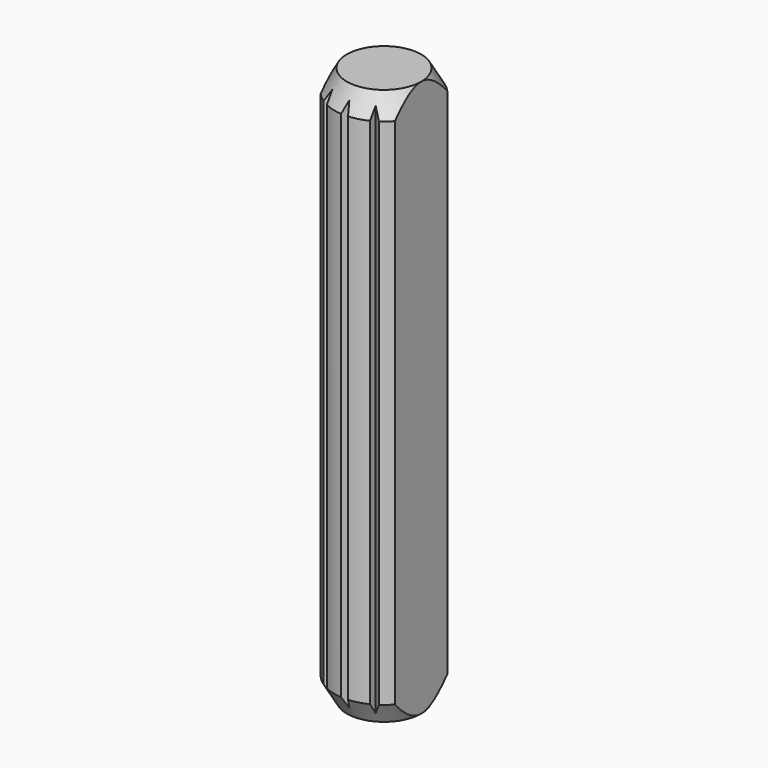
from build123d import *

# Parameters (mm, degrees)
F3_DEPTH = 45.001
F5_DEPTH = 45.001
F6_COUNT = 12
F7_COUNT = 12


with BuildPart() as f1:
    # F0 (on Front) → F1 (revolve)
    with BuildSketch(Plane.XZ):
        Polygon((-3, 0), (0, 0), (0, 45), (-3, 45), (-4, 43.2679491924), (-4, 1.7320508076), align=None)
    revolve(axis=Axis((0, 0, 22.5), (0, 0, -1)))

    # F2 (on face) → F3 (cut, through all)
    with BuildSketch(Plane.XY.offset(45)):
        with BuildLine():
            Line((-3, 0), (-3, 5))
            ThreePointArc((-3, 5), (-5.8309518948, 0), (-3, -5))
            Line((-3, -5), (-3, 0))
        make_face()
        with BuildLine():
            ThreePointArc((5.8309518948, 0), (5.0740937952, 2.8729030888), (3, 5))
            Line((3, 5), (3, 0))
            Line((3, 0), (3, -5))
            ThreePointArc((3, -5), (5.0740937952, -2.8729030888), (5.8309518948, 0))
        make_face()
    extrude(amount=-F3_DEPTH, mode=Mode.SUBTRACT)

    # F4 (on face) → F5 (cut, through all)
    with BuildSketch(Plane.XY.offset(45)):
        Polygon((0.813057266, 4.9082564943), (-0.813057266, 4.9082564943), (0, 3.5), align=None)
        Polygon((0.813057266, -4.9082564943), (0, -3.5), (-0.813057266, -4.9082564943), align=None)
    f5 = extrude(amount=-F5_DEPTH, mode=Mode.SUBTRACT)

    # F6: F5 ×12 about axis
    f6_axis = Axis((0, 0, 45), (0, 0, -1))
    for i in range(1, F6_COUNT):
        add(f5.solids().sort_by_distance((0.406529, 4.204128, 22.4995))[0].rotate(f6_axis, i * 360 / F6_COUNT), mode=Mode.SUBTRACT)

    # F7: F5 ×12 about axis
    f7_axis = Axis((0, 0, 45), (0, 0, 1))
    for i in range(1, F7_COUNT):
        add(f5.solids().sort_by_distance((0.406529, -4.204128, 22.4995))[0].rotate(f7_axis, i * 360 / F7_COUNT), mode=Mode.SUBTRACT)


solid = f1.part
